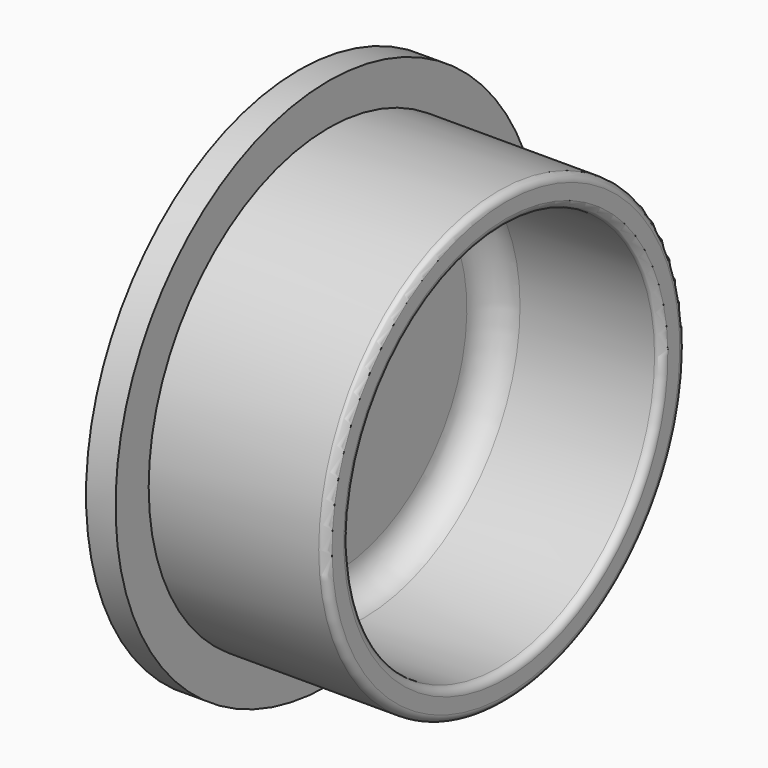
from build123d import *


with BuildPart() as f1:
    # F0 (on Front) → F1 (revolve)
    with BuildSketch(Plane.XZ):
        with BuildLine():
            Line((0, 28.575), (0, 0))
            Line((0, 0), (3.81, 0))
            Line((3.81, 0), (3.81, 17.78))
            ThreePointArc((3.81, 17.78), (4.739936, 20.025064), (6.985, 20.955))
            Line((6.985, 20.955), (21.43125, 20.955))
            ThreePointArc((21.43125, 20.955), (21.992516, 21.187484), (22.225, 21.74875))
            Line((22.225, 21.74875), (22.225, 23.33625))
            ThreePointArc((22.225, 23.33625), (21.992516, 23.897516), (21.43125, 24.13))
            Line((21.43125, 24.13), (3.175, 24.13))
            Line((3.175, 24.13), (3.175, 28.575))
            Line((3.175, 28.575), (0.79375, 28.575))
            Line((0.79375, 28.575), (0, 28.575))
        make_face()
    revolve(axis=Axis((1.905, 0, 0), (1, 0, 0)))


solid = f1.part
